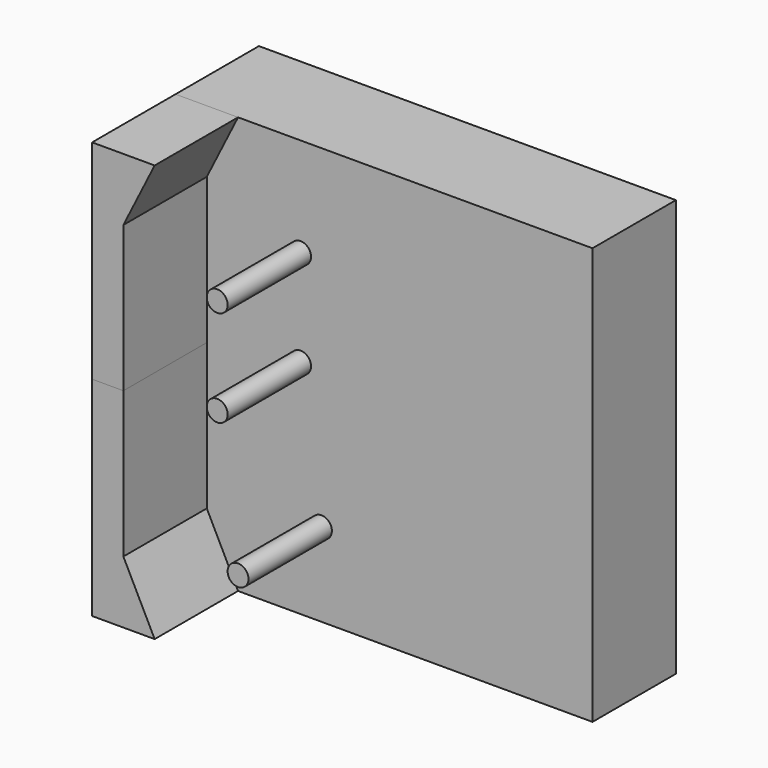
from build123d import *

# Parameters (mm, degrees)
F0_W          = 10
F0_H          = 40
F1_DEPTH      = 20
F1_DEPTH_BACK = 20
F2_R          = 1
F3_DEPTH      = 10


with BuildPart() as f1:
    # F0 (on Right) → F1 (new body, two sides)
    with BuildSketch(Plane.YZ) as f1_sk:
        Rectangle(F0_W, F0_H)
    extrude(amount=F1_DEPTH)
    extrude(f1_sk.sketch, amount=-F1_DEPTH_BACK)


with BuildPart() as f3:
    # F2 (on face) → F3 (new body)
    with BuildSketch(Plane.XZ.offset(5)):
        with Locations((-8, 10.5)):
            Circle(F2_R)
    extrude(amount=F3_DEPTH)


with BuildPart() as f3b:
    # F2 (on face) → F3, piece 2 (new body)
    with BuildSketch(Plane.XZ.offset(5)):
        with Locations((-8, 1.25)):
            Circle(F2_R)
    extrude(amount=F3_DEPTH)


with BuildPart() as f3c:
    # F2 (on face) → F3, piece 3 (new body)
    with BuildSketch(Plane.XZ.offset(5)):
        with Locations((-6, -12)):
            Circle(F2_R)
    extrude(amount=F3_DEPTH)


with BuildPart() as f3d:
    # F2 (on face) → F3, piece 4 (new body)
    with BuildSketch(Plane.XZ.offset(5)):
        Polygon((-20, -20), (-14, -20), (-17, -14), (-17, 0), (-20, 0), align=None)
    extrude(amount=F3_DEPTH)


with BuildPart() as f4_1:
    # F4: instance of F3d
    add(f3d.part.mirror(Plane(origin=(-18.5, -10, 0), x_dir=(1, 0, 0), z_dir=(0, 0, 1))))


solid = Compound([f1.part, f3.part, f3b.part, f3c.part, f3d.part, f4_1.part])
